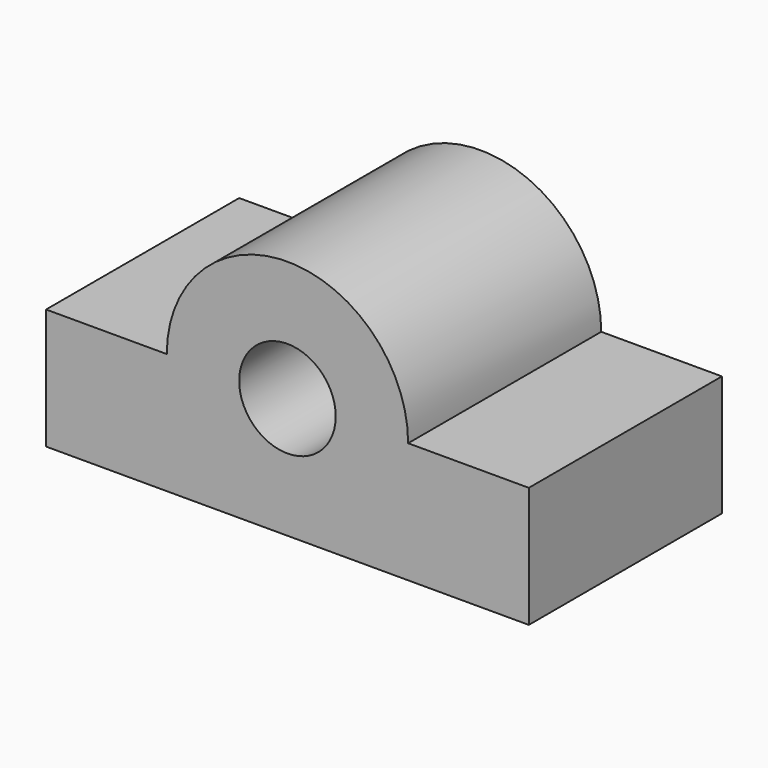
from build123d import *

# Parameters (mm, degrees)
F0_R     = 304.8
F1_DEPTH = 762


with BuildPart() as f1:
    # F0 (on Front) → F1 (new body, symmetric)
    with BuildSketch(Plane.XZ):
        with BuildLine():
            Line((-1158.5768849731, 457.4606752183), (-1920.5768849731, 457.4606752183))
            Line((-1920.5768849731, 457.4606752183), (-1920.5768849731, -304.5393247817))
            Line((-1920.5768849731, -304.5393247817), (1127.4231150269, -304.5393247817))
            Line((1127.4231150269, -304.5393247817), (1127.4231150269, 457.4606752183))
            Line((1127.4231150269, 457.4606752183), (365.4231150269, 457.4606752183))
            ThreePointArc((365.4231150269, 457.4606752183), (-396.5768849731, 1219.4606752183), (-1158.5768849731, 457.4606752183))
        make_face()
        with Locations((-396.5768849731, 457.4606752183)):
            Circle(F0_R, mode=Mode.SUBTRACT)
    extrude(amount=F1_DEPTH, both=True)


solid = f1.part
